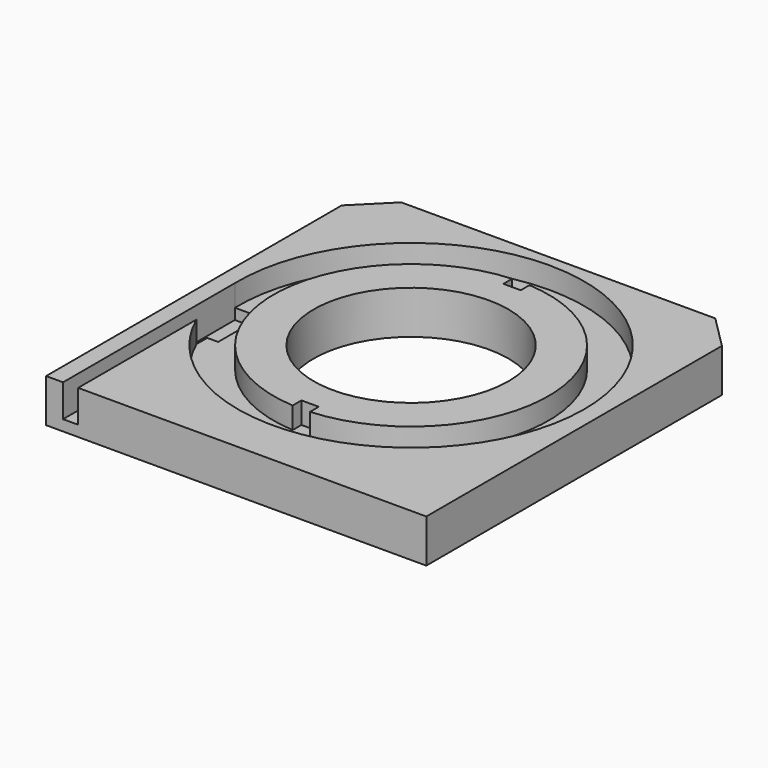
from build123d import *

# Parameters (mm, degrees)
F1_DEPTH = 10
F4_DEPTH = 7.5
F2_R     = 22.5
F5_DEPTH = 10.001
F2_R_2   = 40
F6_DEPTH = 5


with BuildPart() as f1:
    # F0 (on Top) → F1 (new body)
    with BuildSketch(Plane.XY):
        Polygon((43.915, 38.863247), (36.278247, 46.5), (-36.278247, 46.5), (-43.915, 38.863247), (-43.915, -46.5), (43.915, -46.5), align=None)
    extrude(amount=F1_DEPTH)

    # F3 (on face) → F4 (cut)
    with BuildSketch(Plane.XY.offset(10)):
        Polygon((-40, 3.114054), (-40, -46.500151), (-36.5154, -46.500151), (-36.5154, -9.207999), (-34, -9.207999), (-34, 3.114054), align=None)
    extrude(amount=-F4_DEPTH, mode=Mode.SUBTRACT)

    # F2 (on face) → F5 (cut, through all)
    with BuildSketch(Plane.XY.offset(10)):
        with Locations((0, 4)):
            Circle(F2_R)
    extrude(amount=-F5_DEPTH, mode=Mode.SUBTRACT)

    # F2 (on face) → F6 (cut)
    with BuildSketch(Plane.XY.offset(10)):
        with Locations((0, 4)):
            Circle(F2_R_2)
        with BuildLine():
            ThreePointArc((2, 35.686945), (31.75, 4), (2, -27.686945))
            Line((2, -27.686945), (2, -25.15))
            Line((2, -25.15), (-2, -25.15))
            Line((-2, -25.15), (-2, -27.686945))
            ThreePointArc((-2, -27.686945), (-31.75, 4), (-2, 35.686945))
            Line((-2, 35.686945), (-2, 33.15))
            Line((-2, 33.15), (2, 33.15))
            Line((2, 33.15), (2, 35.686945))
        make_face(mode=Mode.SUBTRACT)
    extrude(amount=-F6_DEPTH, mode=Mode.SUBTRACT)


solid = f1.part
